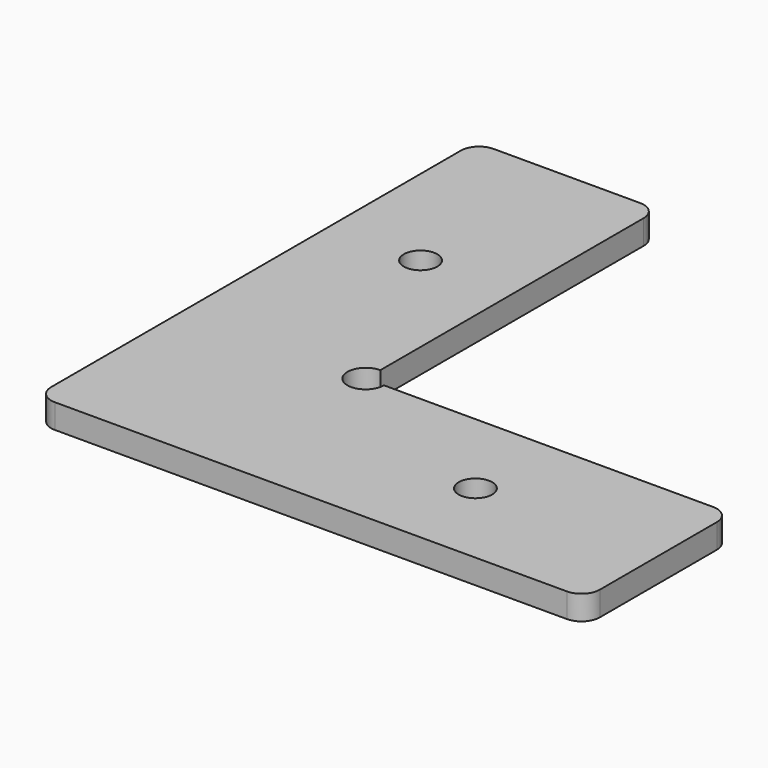
from build123d import *

# Parameters (mm, degrees)
F0_R     = 2.75
F1_DEPTH = 4


with BuildPart() as f1:
    # F0 (on Top) → F1 (new body)
    with BuildSketch(Plane.XY):
        with BuildLine():
            Line((-3, 43.851067), (-27, 43.851067))
            ThreePointArc((-27, 43.851067), (-29.12132, 42.972387), (-30, 40.851067))
            Line((-30, 40.851067), (-30, -43.148933))
            ThreePointArc((-30, -43.148933), (-29.12132, -45.270253), (-27, -46.148933))
            Line((-27, -46.148933), (0, -46.148933))
            Line((0, -46.148933), (57, -46.148933))
            ThreePointArc((57, -46.148933), (59.12132, -45.270253), (60, -43.148933))
            Line((60, -43.148933), (60, -19.148933))
            ThreePointArc((60, -19.148933), (59.12132, -17.027613), (57, -16.148933))
            Line((57, -16.148933), (3, -16.148933))
            ThreePointArc((3, -16.148933), (-2.12132, -18.270253), (0, -13.148933))
            Line((0, -13.148933), (0, 40.851067))
            ThreePointArc((0, 40.851067), (-0.87868, 42.972387), (-3, 43.851067))
        make_face()
        with Locations((30, -31.148933)):
            Circle(F0_R, mode=Mode.SUBTRACT)
        with Locations((-15, 13.851067)):
            Circle(F0_R, mode=Mode.SUBTRACT)
    extrude(amount=F1_DEPTH)


solid = f1.part
